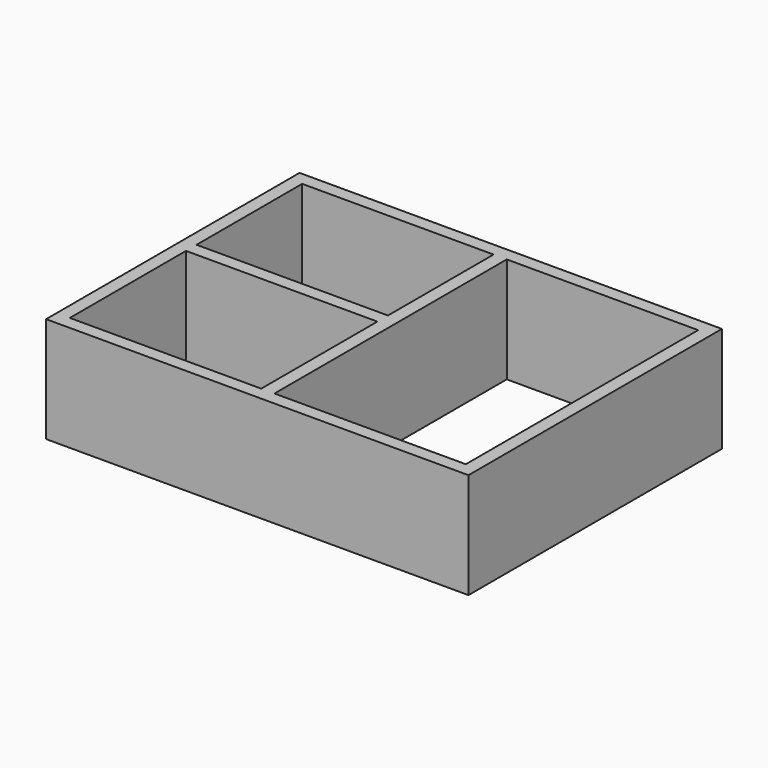
from build123d import *

# Parameters (mm, degrees)
F0_W     = 276.225
F0_H     = 19.05
F0_W_2   = 19.05
F0_H_2   = 419.1
F1_DEPTH = 152.4


with BuildPart() as f1:
    # F0 (on Top) → F1 (new body)
    with BuildSketch(Plane.XY):
        Polygon((-473.202007, 368.503202), (-492.252007, 368.503202), (-492.252007, -50.596798), (-473.202007, -50.596798), (-473.202007, 158.953202), (-473.202007, 178.003202), align=None)
        with Locations((-335.089507, 168.478202)):
            Rectangle(F0_W, F0_H)
        Polygon((117.347993, 387.553202), (-492.252007, 387.553202), (-492.252007, 368.503202), (-473.202007, 368.503202), (-196.977007, 368.503202), (-177.927007, 368.503202), (98.297993, 368.503202), (117.347993, 368.503202), align=None)
        Polygon((-177.927007, 368.503202), (-196.977007, 368.503202), (-196.977007, 178.003202), (-196.977007, 158.953202), (-196.977007, -50.596798), (-177.927007, -50.596798), align=None)
        with Locations((107.822993, 158.953202)):
            Rectangle(F0_W_2, F0_H_2)
        Polygon((-473.202007, -50.596798), (-492.252007, -50.596798), (-492.252007, -69.646798), (117.347993, -69.646798), (117.347993, -50.596798), (98.297993, -50.596798), (-177.927007, -50.596798), (-196.977007, -50.596798), align=None)
    extrude(amount=F1_DEPTH)


solid = f1.part
